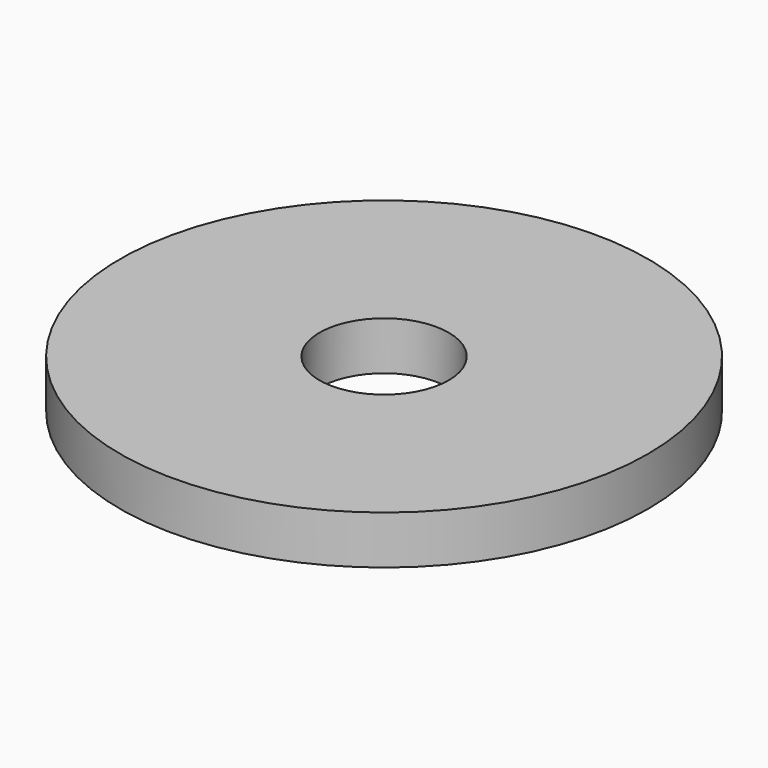
from build123d import *

# Parameters (mm, degrees)
SKETCH_R   = 16.35
SKETCH_R_2 = 4
PAD_DEPTH  = 3


with BuildPart() as part:
    # Sketch → Pad (new body)
    with BuildSketch(Plane.XY):
        Circle(SKETCH_R)
        Circle(SKETCH_R_2, mode=Mode.SUBTRACT)
    extrude(amount=PAD_DEPTH)


solid = part.part
